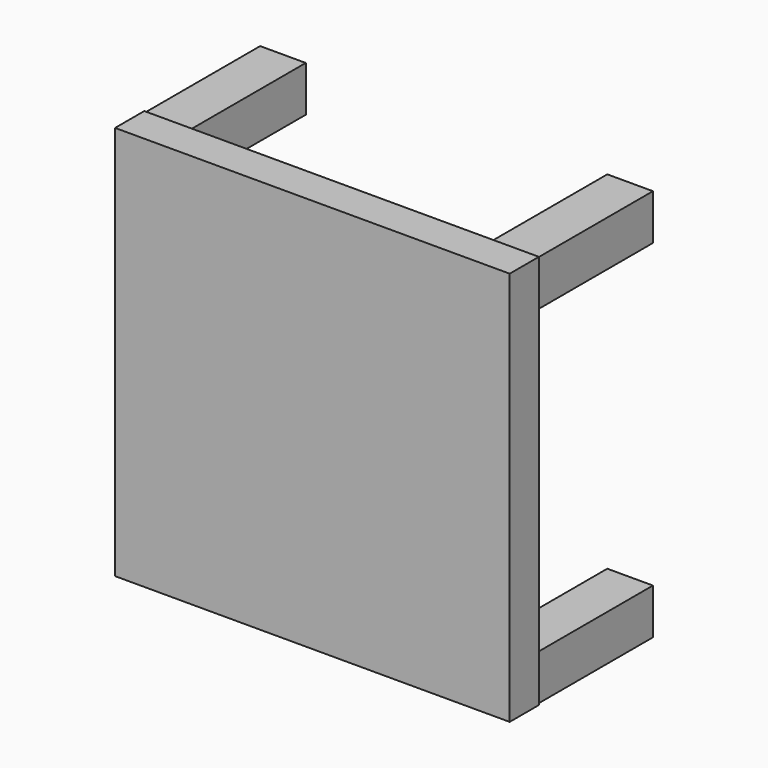
from build123d import *

# Parameters (mm, degrees)
F0_W     = 549.275
F0_H     = 549.275
F0_W_2   = 63.5
F0_H_2   = 63.5
F1_DEPTH = 50.8
F2_DEPTH = 200


with BuildPart() as f1:
    # F0 (on Front) → F1 (new body)
    with BuildSketch(Plane.XZ):
        Rectangle(F0_W, F0_H)
        with Locations((-241.6175, -241.6175)):
            Rectangle(F0_W_2, F0_H_2, mode=Mode.SUBTRACT)
        with Locations((241.6175, -241.6175)):
            Rectangle(F0_W_2, F0_H_2, mode=Mode.SUBTRACT)
        with Locations((-241.6175, 241.6175)):
            Rectangle(F0_W_2, F0_H_2, mode=Mode.SUBTRACT)
        with Locations((241.6175, 241.6175)):
            Rectangle(F0_W_2, F0_H_2, mode=Mode.SUBTRACT)
        with Locations((241.6175, 241.6175)):
            Rectangle(F0_W_2, F0_H_2)
        with Locations((-241.6175, 241.6175)):
            Rectangle(F0_W_2, F0_H_2)
        with Locations((-241.6175, -241.6175)):
            Rectangle(F0_W_2, F0_H_2)
        with Locations((241.6175, -241.6175)):
            Rectangle(F0_W_2, F0_H_2)
    extrude(amount=F1_DEPTH)

    # F0 (on Front) → F2 (join)
    with BuildSketch(Plane.XZ):
        with Locations((-241.6175, 241.6175)):
            Rectangle(F0_W_2, F0_H_2)
        with Locations((241.6175, 241.6175)):
            Rectangle(F0_W_2, F0_H_2)
        with Locations((241.6175, -241.6175)):
            Rectangle(F0_W_2, F0_H_2)
        with Locations((-241.6175, -241.6175)):
            Rectangle(F0_W_2, F0_H_2)
    extrude(amount=-F2_DEPTH)


solid = f1.part
